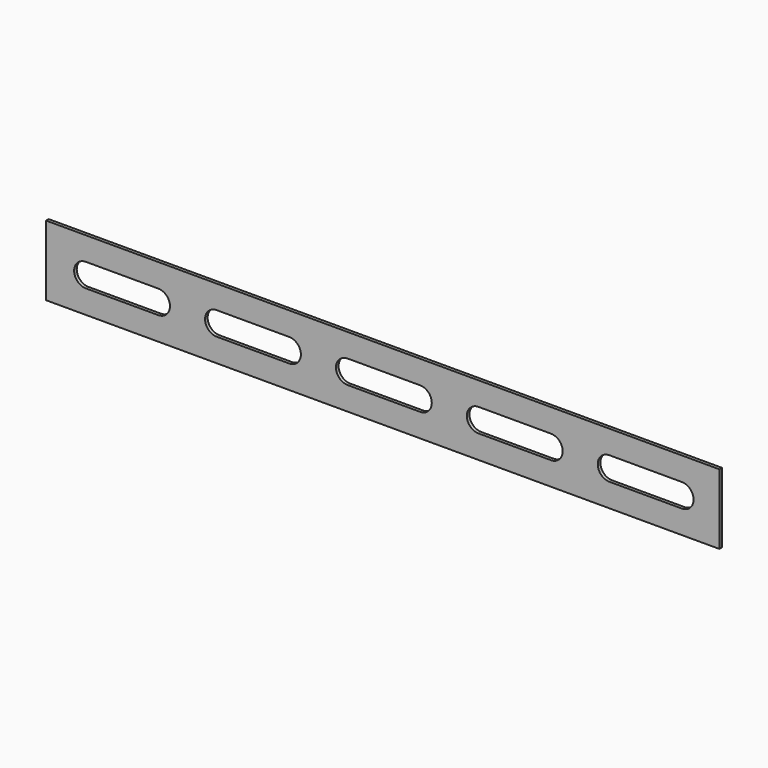
from build123d import *

# Parameters (mm, degrees)
F0_W     = 144
F0_H     = 15
F1_DEPTH = 0.35


with BuildPart() as f1:
    # F0 (on Front) → F1 (new body, symmetric)
    with BuildSketch(Plane.XZ):
        Rectangle(F0_W, F0_H)
        with BuildLine():
            ThreePointArc((-63.5, -2.5), (-66, 0), (-63.5, 2.5))
            Line((-63.5, 2.5), (-48, 2.5))
            ThreePointArc((-48, 2.5), (-45.5, 0), (-48, -2.5))
            Line((-48, -2.5), (-63.5, -2.5))
        make_face(mode=Mode.SUBTRACT)
        with BuildLine():
            ThreePointArc((-35.5, -2.5), (-38, 0), (-35.5, 2.5))
            Line((-35.5, 2.5), (-20, 2.5))
            ThreePointArc((-20, 2.5), (-17.5, 0), (-20, -2.5))
            Line((-20, -2.5), (-35.5, -2.5))
        make_face(mode=Mode.SUBTRACT)
        with BuildLine():
            ThreePointArc((-7.5, -2.5), (-10, 0), (-7.5, 2.5))
            Line((-7.5, 2.5), (8, 2.5))
            ThreePointArc((8, 2.5), (10.5, 0), (8, -2.5))
            Line((8, -2.5), (-7.5, -2.5))
        make_face(mode=Mode.SUBTRACT)
        with BuildLine():
            ThreePointArc((20.5, -2.5), (18, 0), (20.5, 2.5))
            Line((20.5, 2.5), (36, 2.5))
            ThreePointArc((36, 2.5), (38.5, 0), (36, -2.5))
            Line((36, -2.5), (20.5, -2.5))
        make_face(mode=Mode.SUBTRACT)
        with BuildLine():
            ThreePointArc((48.5, -2.5), (46, 0), (48.5, 2.5))
            Line((48.5, 2.5), (64, 2.5))
            ThreePointArc((64, 2.5), (66.5, 0), (64, -2.5))
            Line((64, -2.5), (48.5, -2.5))
        make_face(mode=Mode.SUBTRACT)
    extrude(amount=F1_DEPTH, both=True)


solid = f1.part
